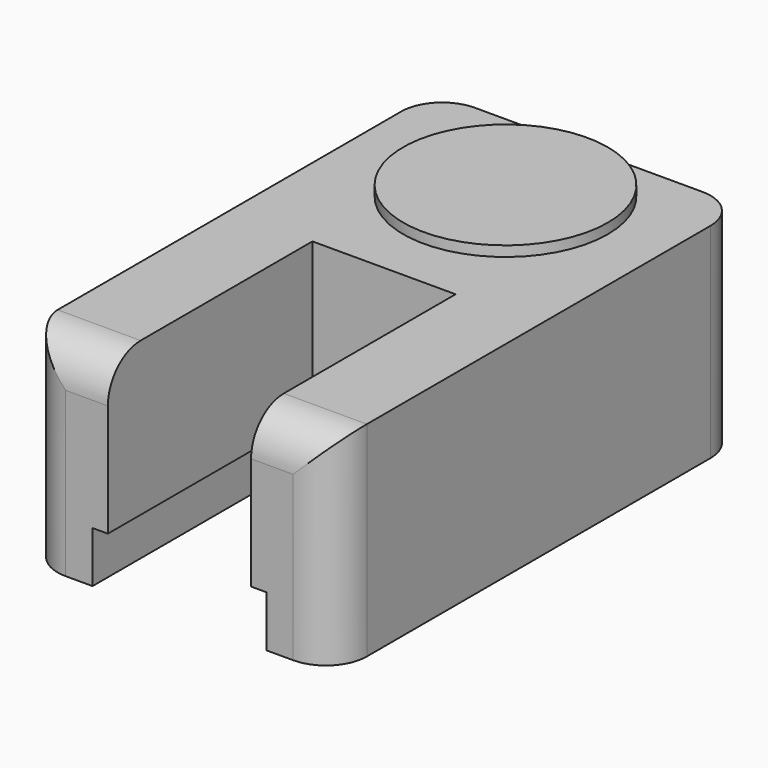
from build123d import *

# Parameters (mm, degrees)
F0_R     = 12.7
F1_DEPTH = 1.27
F3_DEPTH = 25.4
F5_W     = 1.905
F5_H     = 31.75
F6_DEPTH = 6.35
F7_R     = 5.08


with BuildPart() as f1:
    # F0 (on Top) → F1 (new body)
    with BuildSketch(Plane.XY):
        Circle(F0_R)
    extrude(amount=F1_DEPTH)

    # F2 (on Top) → F3 (join)
    with BuildSketch(Plane.XY):
        Polygon((19.35988, 12.7), (-19.05, 12.7), (-19.05, -50.8), (-8.7376, -50.8), (-8.7376, -19.05), (9.0424, -19.05), (9.0424, -50.8), (19.35988, -50.8), align=None)
    extrude(amount=-F3_DEPTH)

    # F5 (on face) → F6 (cut)
    with BuildSketch(Plane(origin=(0, 0, -25.4), x_dir=(1, 0, 0), z_dir=(0, 0, -1))):
        with Locations((-9.6901, 34.925)):
            Rectangle(F5_W, F5_H)
        with Locations((9.9949, 34.925)):
            Rectangle(F5_W, F5_H)
    extrude(amount=-F6_DEPTH, mode=Mode.SUBTRACT)

    # F7
    f7_edges = [f1.edges().sort_by_distance(p)[0] for p in [
        (-13.8938, -50.8, 0),
        (-19.05, -50.8, -12.7),
        (14.20114, -50.8, 0),
        (19.35988, -50.8, -12.7),
        (19.35988, 12.7, -12.7),
        (-19.05, 12.7, -12.7),
    ]]
    fillet(f7_edges, radius=F7_R)


solid = f1.part
